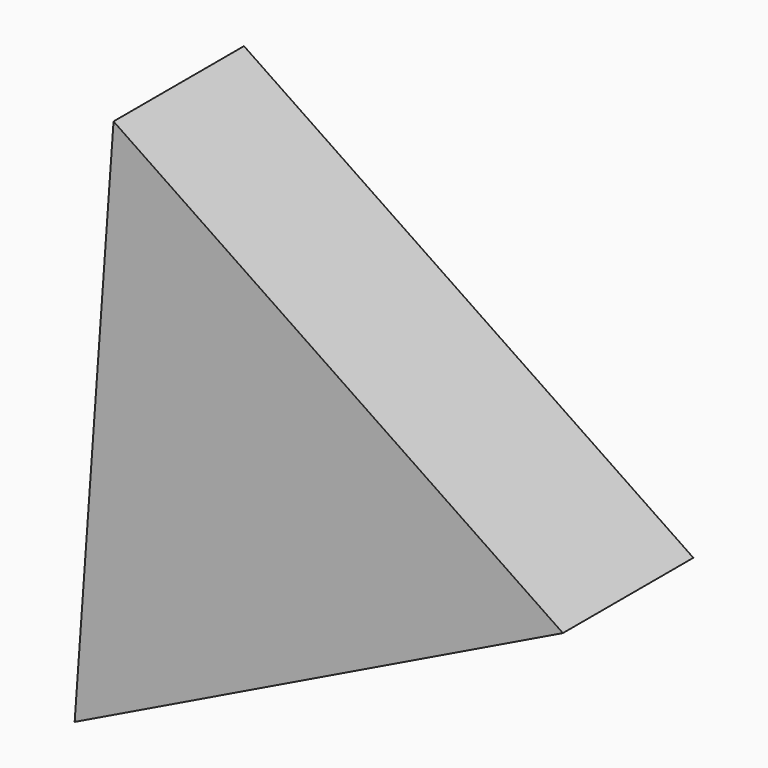
from build123d import *

# Parameters (mm, degrees)
F1_DEPTH = 12.7
F3_DEPTH = 127


with BuildPart() as f1:
    # F0 (on Front) → F1 (new body, symmetric)
    with BuildSketch(Plane.XZ):
        Polygon((6.052828, 54.545768), (-38.871723, 38.741022), (-54.525073, -6.236505), (-29.119931, -46.517816), (18.213113, -51.770263), (51.831311, -18.038646), (46.419475, 29.276439), align=None)
        Polygon((20.372863, 87.034216), (-55.343817, 70.193092), (-89.385475, 0.495138), (-56.118047, -69.575665), (19.407415, -87.254573), (80.318698, -39.229008), (80.748362, 38.3368), align=None)
        Polygon((-54.525073, -6.236505), (-38.871723, 38.741022), (6.052828, 54.545768), (46.419475, 29.276439), (51.831311, -18.038646), (18.213113, -51.770263), (-29.119931, -46.517816), align=None, mode=Mode.SUBTRACT)
    extrude(amount=F1_DEPTH, both=True)

    # F2 (on face) → F3 (join)
    with BuildSketch(Plane(origin=(0, 12.7, 0), x_dir=(-1, 0, 0), z_dir=(0, 1, 0))):
        Polygon((-243.406081, -22.044428), (136.851162, -206.602961), (106.554919, 214.988738), align=None)
    extrude(amount=-F3_DEPTH)


solid = f1.part
